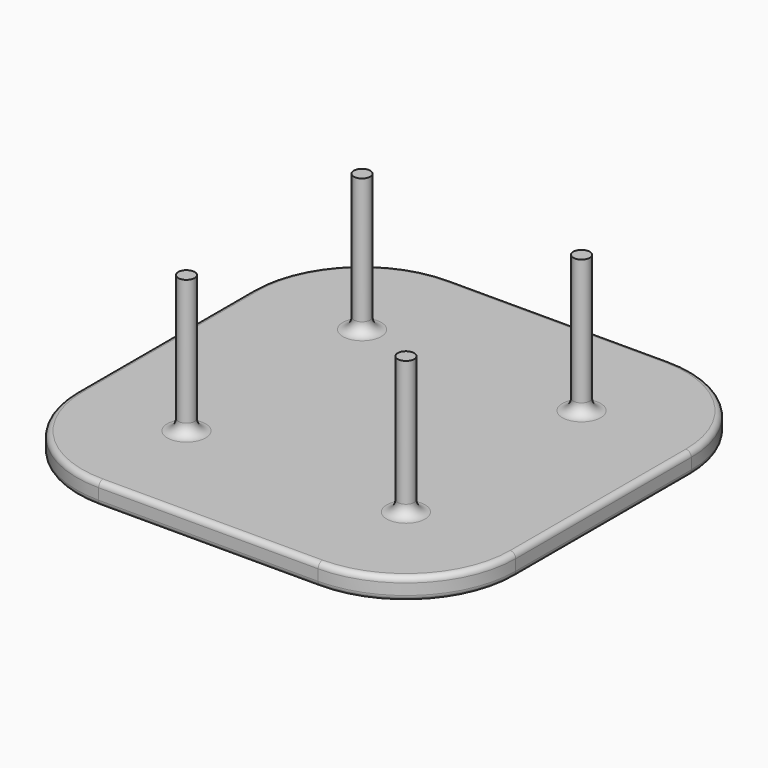
from build123d import *

# Parameters (mm, degrees)
SKETCH_W     = 80
SKETCH_H     = 80
PAD_DEPTH    = 4
SKETCH001_R  = 1.5
PAD001_DEPTH = 25
FILLET_R     = 20
FILLET001_R  = 2
FILLET002_R  = 1
FILLET003_R  = 1


with BuildPart() as part:
    # Sketch → Pad (new body)
    with BuildSketch(Plane.XY):
        with Locations((40, 40)):
            Rectangle(SKETCH_W, SKETCH_H)
    extrude(amount=PAD_DEPTH)

    # Sketch001 (on Face6 of Pad) → Pad001 (join)
    with BuildSketch(Plane.XY.offset(4)):
        with Locations((20, 60)):
            Circle(SKETCH001_R)
        with Locations((60, 60)):
            Circle(SKETCH001_R)
        with Locations((20, 20)):
            Circle(SKETCH001_R)
        with Locations((60, 20)):
            Circle(SKETCH001_R)
    extrude(amount=PAD001_DEPTH)

    # Fillet
    fillet_edges = [part.edges().sort_by_distance(p)[0] for p in [
        (0, 80, 2),
        (80, 80, 2),
        (80, 0, 2),
        (0, 0, 2),
    ]]
    fillet(fillet_edges, radius=FILLET_R)

    # Fillet001
    fillet001_edges = [part.edges().sort_by_distance(p)[0] for p in [
        (18.5, 60, 4),
        (18.5, 20, 4),
        (58.5, 20, 4),
        (58.5, 60, 4),
    ]]
    fillet(fillet001_edges, radius=FILLET001_R)

    # Fillet002
    fillet002_edges = [part.edges().sort_by_distance(p)[0] for p in [
        (40, 80, 0),
        (5.857864, 74.142136, 0),
        (74.142136, 74.142136, 0),
        (0, 40, 0),
        (80, 40, 0),
        (5.857864, 5.857864, 0),
        (74.142136, 5.857864, 0),
        (40, 0, 0),
    ]]
    fillet(fillet002_edges, radius=FILLET002_R)

    # Fillet003
    fillet003_edges = [part.edges().sort_by_distance(p)[0] for p in [
        (74.142136, 5.857864, 4),
        (80, 40, 4),
        (74.142136, 74.142136, 4),
        (40, 80, 4),
        (5.857864, 74.142136, 4),
        (0, 40, 4),
        (5.857864, 5.857864, 4),
        (40, 0, 4),
    ]]
    fillet(fillet003_edges, radius=FILLET003_R)


solid = part.part
